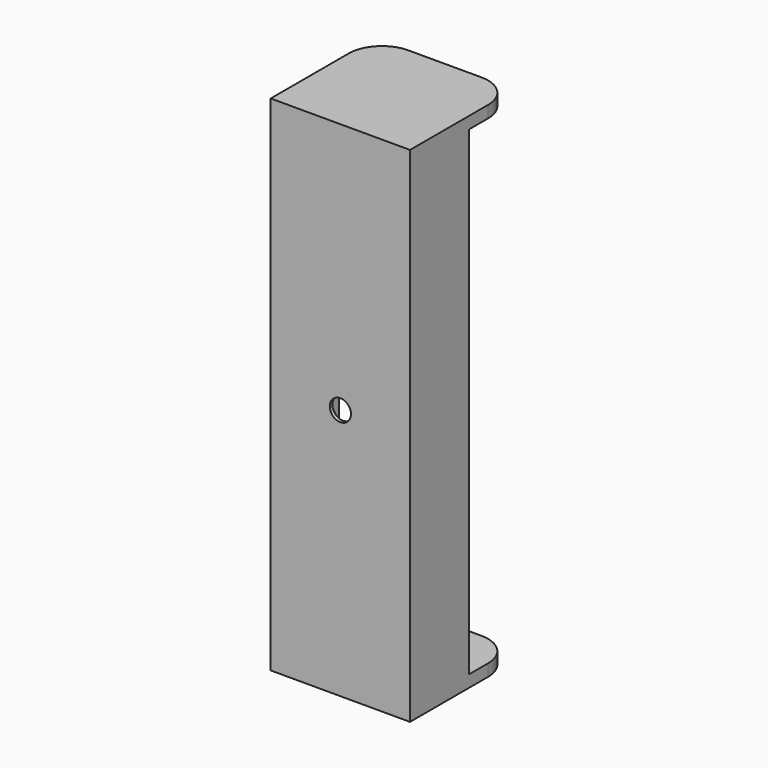
from build123d import *

# Parameters (mm, degrees)
SKETCH_W        = 21
SKETCH_H        = 19.7
PAD_DEPTH       = 75.9
FILLET_R        = 5
SKETCH001_W     = 21
SKETCH001_H     = 72.3
POCKET_DEPTH    = 8.6
SKETCH002_W     = 18.2
SKETCH002_H     = 72.3
POCKET001_DEPTH = 9.6
SKETCH003_R     = 1.6
POCKET002_DEPTH = 5
CHAMFER_SIZE    = 1


with BuildPart() as part:
    # Sketch → Pad (new body)
    with BuildSketch(Plane.XY):
        with Locations((0, 9.85)):
            Rectangle(SKETCH_W, SKETCH_H)
    extrude(amount=PAD_DEPTH)

    # Fillet
    fillet_edges = [part.edges().sort_by_distance(p)[0] for p in [
        (-10.5, 19.7, 37.95),
        (10.5, 19.7, 37.95),
    ]]
    fillet(fillet_edges, radius=FILLET_R)

    # Sketch001 (on Face6 of Fillet) → Pocket (cut)
    with BuildSketch(Plane(origin=(0, 19.7, 0), x_dir=(-1, 0, 0), z_dir=(0, 1, 0))):
        with Locations((0, 37.95)):
            Rectangle(SKETCH001_W, SKETCH001_H)
    extrude(amount=-POCKET_DEPTH, mode=Mode.SUBTRACT)

    # Sketch002 (on Face4 of Pocket) → Pocket001 (cut)
    with BuildSketch(Plane(origin=(0, 11.1, 0), x_dir=(-1, 0, 0), z_dir=(0, 1, 0))):
        with Locations((0, 37.95)):
            Rectangle(SKETCH002_W, SKETCH002_H)
    extrude(amount=-POCKET001_DEPTH, mode=Mode.SUBTRACT)

    # Sketch003 (on Face20 of Pocket001) → Pocket002 (cut)
    with BuildSketch(Plane(origin=(0, 1.5, 0), x_dir=(-1, 0, 0), z_dir=(0, 1, 0))):
        with Locations((0, 37.95)):
            Circle(SKETCH003_R)
    extrude(amount=-POCKET002_DEPTH, mode=Mode.SUBTRACT)

    # Chamfer
    chamfer_edges = [part.edges().sort_by_distance(p)[0] for p in [
        (1.6, 1.5, 37.95),
    ]]
    chamfer(chamfer_edges, length=CHAMFER_SIZE)


solid = part.part
